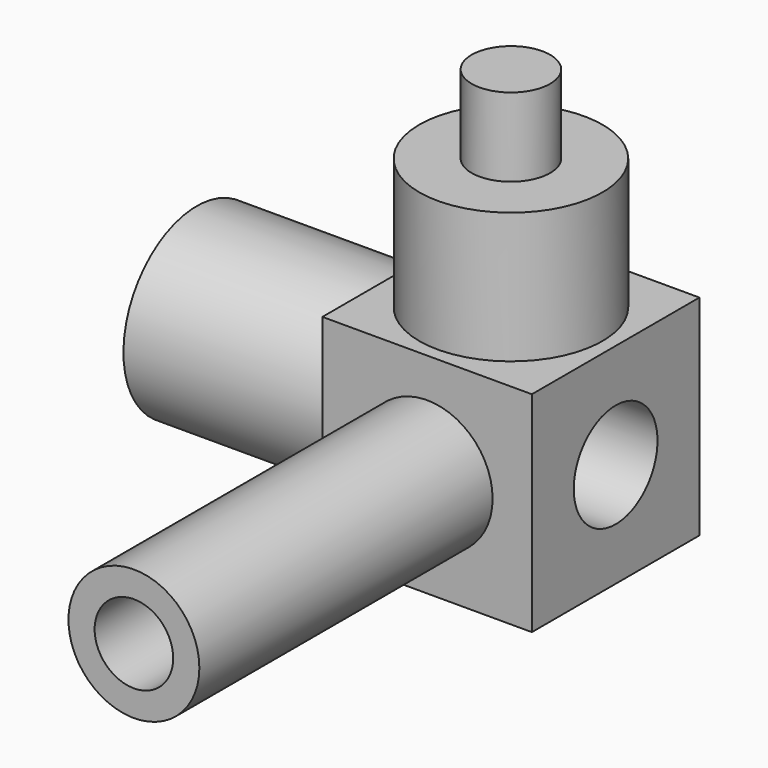
from build123d import *

# Parameters (mm, degrees)
F1_DEPTH  = 8
F1_FACE_W = 16
F1_FACE_H = 16
F2_DEPTH  = 8
F0_W      = 3
F0_H      = 6
F0_W_2    = 16
F0_H_2    = 7
F5_R      = 4
F6_DEPTH  = 37
F7_R      = 5
F7_R_2    = 3
F8_DEPTH  = 28
F8_FACE_R = 3
F9_DEPTH  = 25


with BuildPart() as f1:
    # F0 (on Front) → F1 (new body)
    with BuildSketch(Plane.XZ):
        Polygon((8, -10.693457), (8, -2.693457), (8, 5.306543), (7, 5.306543), (0, 5.306543), (-7, 5.306543), (-8, 5.306543), (-8, 4), (-8, -2.693457), (-8, -9.693457), (-8, -10.693457), align=None)
    extrude(amount=F1_DEPTH)

    # F1_face (on face) → F2 (join)
    with BuildSketch(Plane(origin=(0, 0, -2.693457), x_dir=(1, 0, 0), z_dir=(0, 1, 0))):
        Rectangle(F1_FACE_W, F1_FACE_H)
    extrude(amount=F2_DEPTH)

    # F0 (on Front) → F3 (revolve)
    with BuildSketch(Plane.XZ):
        with Locations((-1.5, 18.306543)):
            Rectangle(F0_W, F0_H)
        Polygon((-7, 5.306543), (0, 5.306543), (0, 15.306543), (-3, 15.306543), (-7, 15.306543), align=None)
    revolve(axis=Axis((0, 0, 18.306543), (0, 0, 1)))

    # F0 (on Front) → F4 (revolve)
    with BuildSketch(Plane.XZ):
        with Locations((-16, -6.193457)):
            Rectangle(F0_W_2, F0_H_2)
    revolve(axis=Axis((-16, 0, -2.693457), (-1, 0, 0)))

    # F5 (on face) → F6 (cut)
    with BuildSketch(Plane(origin=(-24, 0, 0), x_dir=(0, -1, 0), z_dir=(-1, 0, 0))):
        with Locations((0, -2.693457)):
            Circle(F5_R)
    extrude(amount=-F6_DEPTH, mode=Mode.SUBTRACT)

    # F7 (on face) → F8 (join)
    with BuildSketch(Plane.XZ.offset(8)):
        with Locations((0, -2.693457)):
            Circle(F7_R)
        with Locations((0, -2.693457)):
            Circle(F7_R_2, mode=Mode.SUBTRACT)
    extrude(amount=F8_DEPTH)

    # F8_face (on face) → F9 (cut)
    with BuildSketch(Plane(origin=(0, -8, -2.693457), x_dir=(1, 0, 0), z_dir=(0, -1, 0))):
        Circle(F8_FACE_R)
    extrude(amount=-F9_DEPTH, mode=Mode.SUBTRACT)


solid = f1.part
